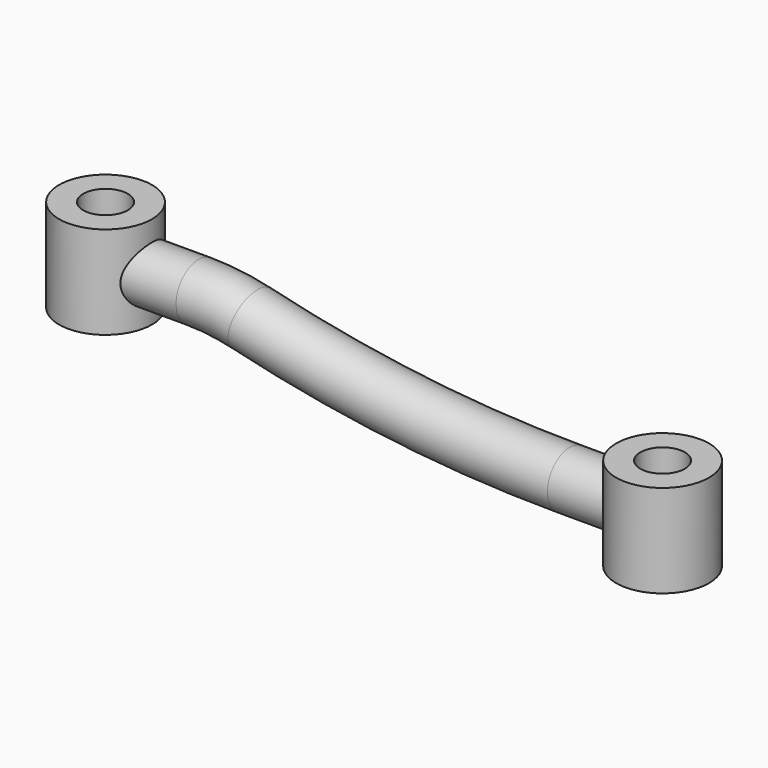
from build123d import *

# Parameters (mm, degrees)
F1_R          = 7.5
F3_R          = 12.5
F3_R_2        = 6
F4_DEPTH      = 25
F5_DEPTH      = 12.5
F6_R          = 6
F7_DEPTH      = 25.0010001
F8_R          = 6
F9_DEPTH      = 12.5010001
F9_DEPTH_BACK = 25.0010001


with BuildPart() as f2:
    # F2: sweep along a path in F0
    with BuildLine(Plane.XZ) as f2_path:
        Line((0, 12), (25, 12))
        ThreePointArc((25, 12), (32.1487132371, 11.5726103092), (39.1955835962, 10.2965299685))
        ThreePointArc((39.1955835962, 10.2965299685), (81.789999989, 2.5833332421), (125, 0))
        Line((125, 0), (150, 0))
    # F1 (on Right) → F2 (sweep)
    with BuildSketch(Plane.YZ):
        with Locations((0, 12)):
            Circle(F1_R)
    sweep(path=f2_path.line)

    # F3 (on Top) → F4 (join)
    with BuildSketch(Plane.XY):
        Circle(F3_R)
        Circle(F3_R_2, mode=Mode.SUBTRACT)
    extrude(amount=F4_DEPTH)

    # F3 (on Top) → F5 (join, symmetric)
    with BuildSketch(Plane.XY):
        with Locations((150, 0)):
            Circle(F3_R)
        with Locations((150, 0)):
            Circle(F3_R_2, mode=Mode.SUBTRACT)
    extrude(amount=F5_DEPTH, both=True)

    # F6 (on face) → F7 (cut, through all)
    with BuildSketch(Plane.XY):
        Circle(F6_R)
    extrude(amount=F7_DEPTH, mode=Mode.SUBTRACT)

    # F8 (on face) → F9 (cut, two sides)
    with BuildSketch(Plane.XY) as f9_sk:
        with Locations((150, 0)):
            Circle(F8_R)
    extrude(amount=-F9_DEPTH, mode=Mode.SUBTRACT)
    extrude(f9_sk.sketch, amount=F9_DEPTH_BACK, mode=Mode.SUBTRACT)


solid = f2.part
